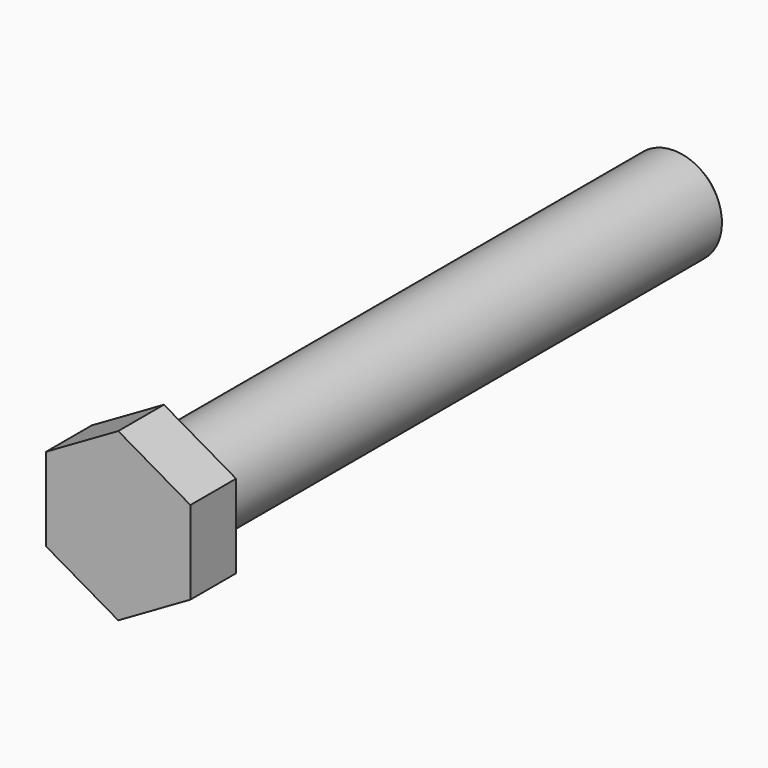
from build123d import *

# Parameters (mm, degrees)
F3_DEPTH = 7.125
F4_SIZE  = 0.875


with BuildPart() as f1:
    # F0 (on Right) → F1 (revolve)
    with BuildSketch(Plane.YZ):
        Polygon((-7.5, 0), (0, 0), (80, 0), (80, 6), (0, 6), (0, 8.315), (-0.375, 8.69), (-0.375, 9), (-7.5, 9), align=None)
    revolve(axis=Axis((0, -14.141711, 0), (0, -1, 0)))

    # F2 (on face) → F3 (join, through all)
    with BuildSketch(Plane.XZ.offset(7.5)):
        Polygon((9, -5.196152), (9, 5.196152), (0, 10.392305), (-9, 5.196152), (-9, -5.196152), (0, -10.392305), align=None)
    extrude(amount=-F3_DEPTH)

    # F4
    f4_edges = [f1.edges().sort_by_distance(p)[0] for p in [
        (0, 80, -6),
    ]]
    chamfer(f4_edges, length=F4_SIZE)


solid = f1.part
